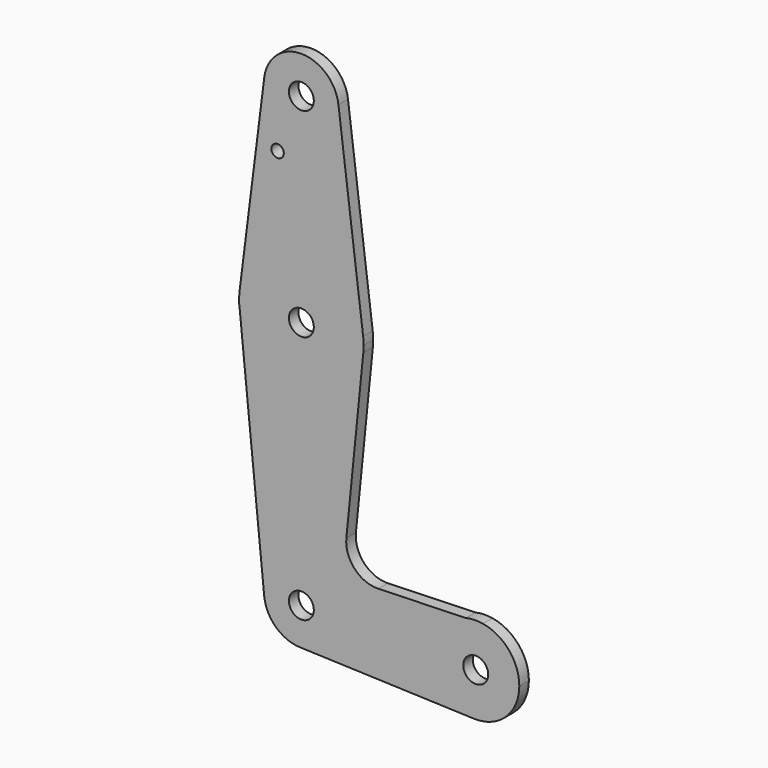
from build123d import *

# Parameters (mm, degrees)
F0_R     = 3.175
F0_R_2   = 1.5875
F1_DEPTH = 3.048


with BuildPart() as f1:
    # F0 (on Front) → F1 (new body)
    with BuildSketch(Plane.XZ):
        with BuildLine():
            ThreePointArc((-53.900293, 73.801808), (-45.046483, 63.104878), (-34.925, 72.611183))
            ThreePointArc((-34.925, 72.611183), (-34.943695, 73.207666), (-34.999707, 73.801808))
            ThreePointArc((-34.999707, 73.801808), (-44.45, 82.136183), (-53.900293, 73.801808))
        make_face()
        with Locations((-44.45, 72.611183)):
            Circle(F0_R, mode=Mode.SUBTRACT)
        with BuildLine():
            ThreePointArc((-34.999707, 73.801808), (-34.943695, 73.207666), (-34.925, 72.611183))
            ThreePointArc((-34.925, 72.611183), (-45.046483, 63.104878), (-53.900293, 73.801808))
            Line((-53.900293, 73.801808), (-60.200488, 23.795558))
            ThreePointArc((-60.200488, 23.795558), (-44.45, 37.686183), (-28.699512, 23.795558))
            Line((-28.699512, 23.795558), (-34.999707, 73.801808))
        make_face()
        with Locations((-50.517388, 58.336383)):
            Circle(F0_R_2, mode=Mode.SUBTRACT)
        with BuildLine():
            ThreePointArc((-28.575, 21.811183), (-28.606159, 22.805321), (-28.699512, 23.795558))
            ThreePointArc((-28.699512, 23.795558), (-44.45, 37.686183), (-60.200488, 23.795558))
            ThreePointArc((-60.200488, 23.795558), (-60.322934, 21.555099), (-60.128279, 19.319757))
            ThreePointArc((-60.128279, 19.319757), (-43.994258, 5.942726), (-28.654574, 20.223683))
            ThreePointArc((-28.654574, 20.223683), (-28.594906, 21.016436), (-28.575, 21.811183))
        make_face()
        with Locations((-44.45, 21.811183)):
            Circle(F0_R, mode=Mode.SUBTRACT)
        with BuildLine():
            ThreePointArc((-28.654574, 20.223683), (-43.994258, 5.942726), (-60.128279, 19.319757))
            Line((-60.128279, 19.319757), (-53.927655, -42.637335))
            ThreePointArc((-53.927655, -42.637335), (-44.924849, -32.175661), (-34.925, -41.688817))
            ThreePointArc((-34.925, -41.688817), (-37.690124, -48.399235), (-44.380056, -51.213561))
            Line((-44.380056, -51.213561), (-0.399348, -52.794989))
            ThreePointArc((-0.399348, -52.794989), (-11.061544, -42.760618), (-2.52415, -30.865917))
            Line((-2.52415, -30.865917), (-24.823762, -31.556247))
            ThreePointArc((-24.823762, -31.556247), (-30.882559, -29.033601), (-32.980108, -22.814834))
            Line((-32.980108, -22.814834), (-28.654574, 20.223683))
        make_face()
        with BuildLine():
            ThreePointArc((-34.925, -41.688817), (-44.924849, -32.175661), (-53.927655, -42.637335))
            ThreePointArc((-53.927655, -42.637335), (-50.815074, -48.774822), (-44.380056, -51.213561))
            ThreePointArc((-44.380056, -51.213561), (-37.690124, -48.399235), (-34.925, -41.688817))
        make_face()
        with Locations((-44.45, -41.688817)):
            Circle(F0_R, mode=Mode.SUBTRACT)
        with BuildLine():
            ThreePointArc((-2.52415, -30.865917), (-11.061544, -42.760618), (-0.399348, -52.794989))
            ThreePointArc((-0.399348, -52.794989), (7.715842, -49.687086), (11.113349, -41.688817))
            ThreePointArc((11.113349, -41.688817), (8.487189, -34.514269), (1.849868, -30.73051))
            Line((1.849868, -30.73051), (-2.52415, -30.865917))
        make_face()
        with Locations((0, -41.688817)):
            Circle(F0_R, mode=Mode.SUBTRACT)
        with BuildLine():
            ThreePointArc((1.849868, -30.73051), (-0.343872, -30.58079), (-2.52415, -30.865917))
            Line((-2.52415, -30.865917), (1.849868, -30.73051))
        make_face()
    extrude(amount=F1_DEPTH)


solid = f1.part
